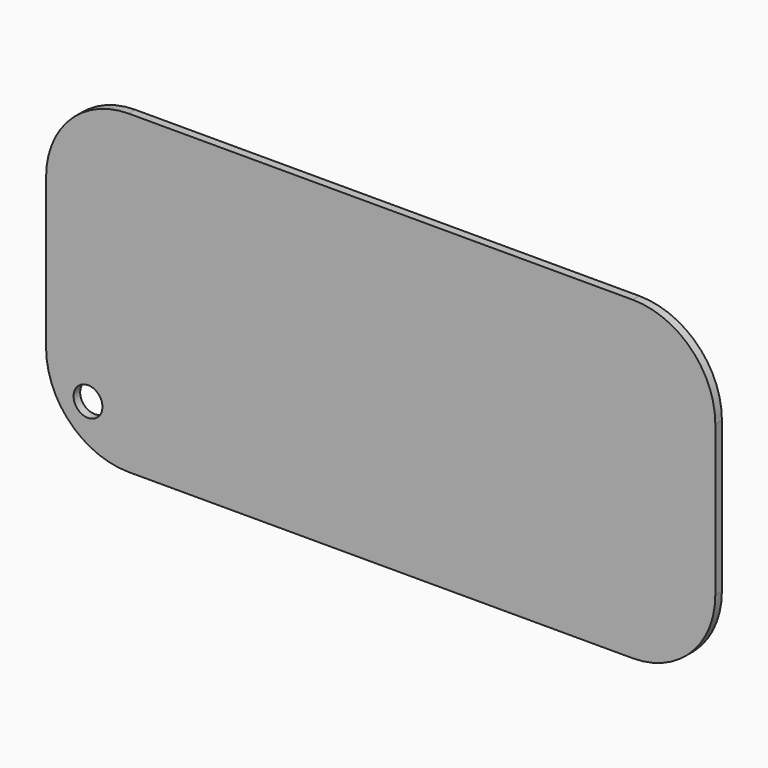
from build123d import *

# Parameters (mm, degrees)
F0_W     = 205.717654
F0_H     = 97.017468
F1_DEPTH = 2.54
F2_R     = 25.4
F3_R     = 4.435066
F4_DEPTH = 2.54


with BuildPart() as f1:
    # F0 (on Front) → F1 (new body)
    with BuildSketch(Plane.XZ):
        Rectangle(F0_W, F0_H)
    extrude(amount=F1_DEPTH)

    # F2
    f2_edges = [f1.edges().sort_by_distance(p)[0] for p in [
        (102.858827, -1.27, 48.508734),
        (102.858827, -1.27, -48.508734),
        (-102.858827, -1.27, -48.508734),
        (-102.858827, -1.27, 48.508734),
    ]]
    fillet(f2_edges, radius=F2_R)

    # F3 (on face) → F4 (cut)
    with BuildSketch(Plane.XZ.offset(2.54)):
        with Locations((-89.973114, -33.48276)):
            Circle(F3_R)
    extrude(amount=-F4_DEPTH, mode=Mode.SUBTRACT)


solid = f1.part
